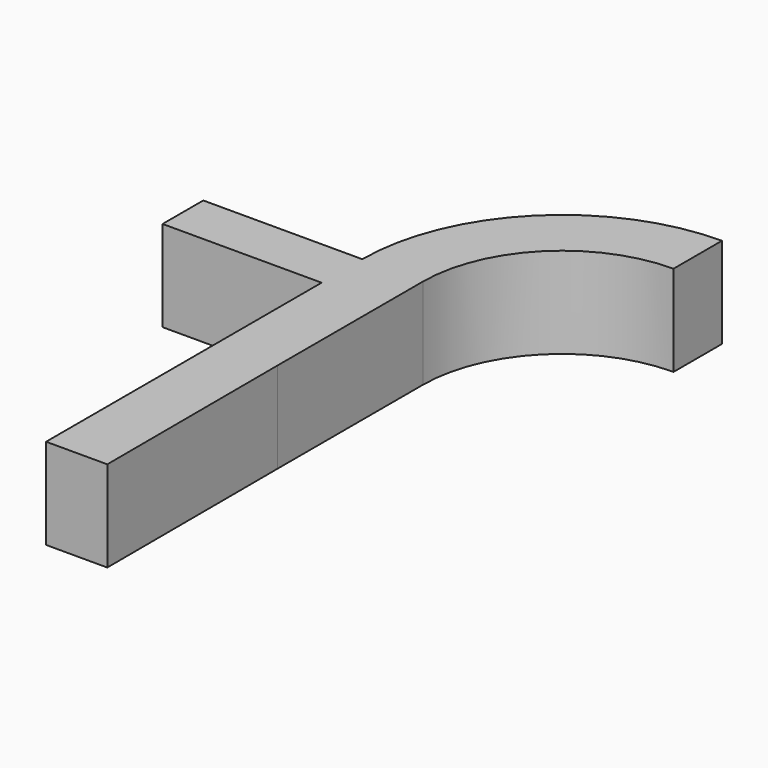
from build123d import *

# Parameters (mm, degrees)
F1_DEPTH = 76.2


with BuildPart() as f1:
    # F0 (on Top) → F1 (new body)
    with BuildSketch(Plane.XY):
        with BuildLine():
            Line((0, 109.7323819995), (0, 0))
            Line((0, 0), (0, -179.0317595005))
            Line((0, -179.0317595005), (51.3130910695, -179.0317595005))
            Line((51.3130910695, -179.0317595005), (50.8, 0))
            Line((50.8, 0), (50.8, 152.4))
            ThreePointArc((50.8, 152.4), (84.991870064, 234.9464764315), (167.5383464956, 269.1383464956))
            Line((167.5383464956, 269.1383464956), (167.5383464956, 319.8959154187))
            ThreePointArc((167.5383464956, 319.8959154187), (49.0734200802, 270.8525002146), (0, 152.4))
            Line((0, 152.4), (-133.3388239145, 152.4))
            Line((-133.3388239145, 152.4), (-133.3388239145, 109.7323819995))
            Line((-133.3388239145, 109.7323819995), (0, 109.7323819995))
        make_face()
    extrude(amount=F1_DEPTH)


solid = f1.part
